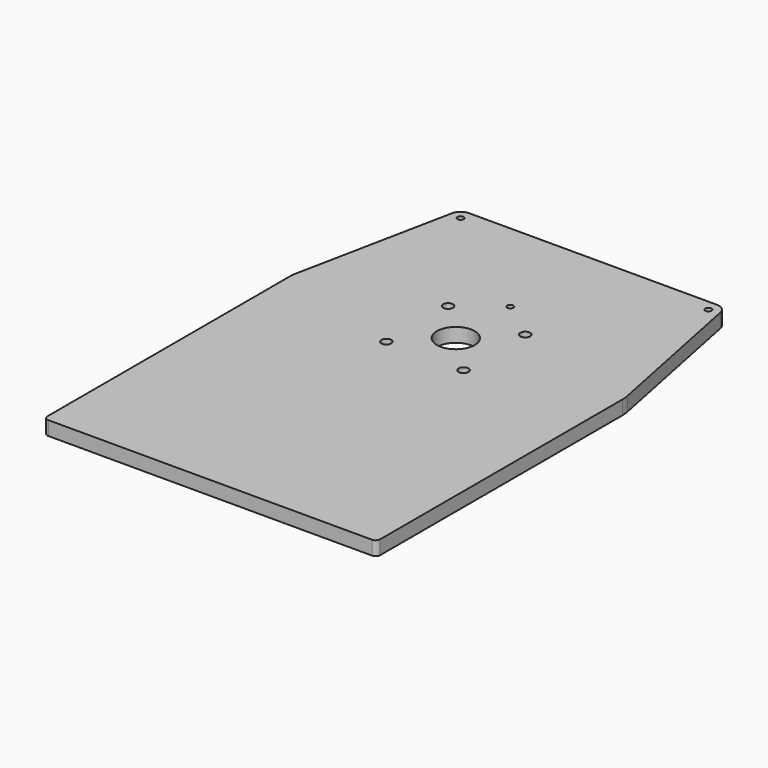
from build123d import *

# Parameters (mm, degrees)
SKETCH_R   = 25
SKETCH_R_2 = 6.5
SKETCH_R_3 = 4.1
PAD_DEPTH  = 18.5


with BuildPart() as part:
    # Sketch → Pad (new body)
    with BuildSketch(Plane.XY):
        with BuildLine():
            Line((-220, 0), (-220, -400))
            ThreePointArc((-220, -400), (-218.242641, -404.242641), (-214, -406))
            Line((-214, -406), (214, -406))
            ThreePointArc((214, -406), (218.242641, -404.242641), (220, -400))
            Line((220, -400), (220, 0))
            ThreePointArc((220, 0), (219.751495, 4.978826), (219.008452, 9.908162))
            Line((219.008452, 9.908162), (177.466268, 215.387043))
            ThreePointArc((177.466268, 215.387043), (172.608438, 223.448808), (163.743902, 226.612757))
            Line((-163.743902, 226.612757), (163.743902, 226.612757))
            ThreePointArc((-163.743902, 226.612757), (-172.608438, 223.448808), (-177.466268, 215.387043))
            Line((-219.008452, 9.908162), (-177.466268, 215.387043))
            ThreePointArc((-219.008452, 9.908162), (-219.751495, 4.978826), (-220, 0))
        make_face()
        Circle(SKETCH_R, mode=Mode.SUBTRACT)
        with Locations((51, 51)):
            Circle(SKETCH_R_2, mode=Mode.SUBTRACT)
        with Locations((-51, 51)):
            Circle(SKETCH_R_2, mode=Mode.SUBTRACT)
        with Locations((-51, -51)):
            Circle(SKETCH_R_2, mode=Mode.SUBTRACT)
        with Locations((51, -51)):
            Circle(SKETCH_R_2, mode=Mode.SUBTRACT)
        with Locations((0, 90)):
            Circle(SKETCH_R_3, mode=Mode.SUBTRACT)
        with Locations((163.743902, 212.612757)):
            Circle(SKETCH_R_3, mode=Mode.SUBTRACT)
        with Locations((-163.743902, 212.612757)):
            Circle(SKETCH_R_3, mode=Mode.SUBTRACT)
    extrude(amount=PAD_DEPTH)


solid = part.part
